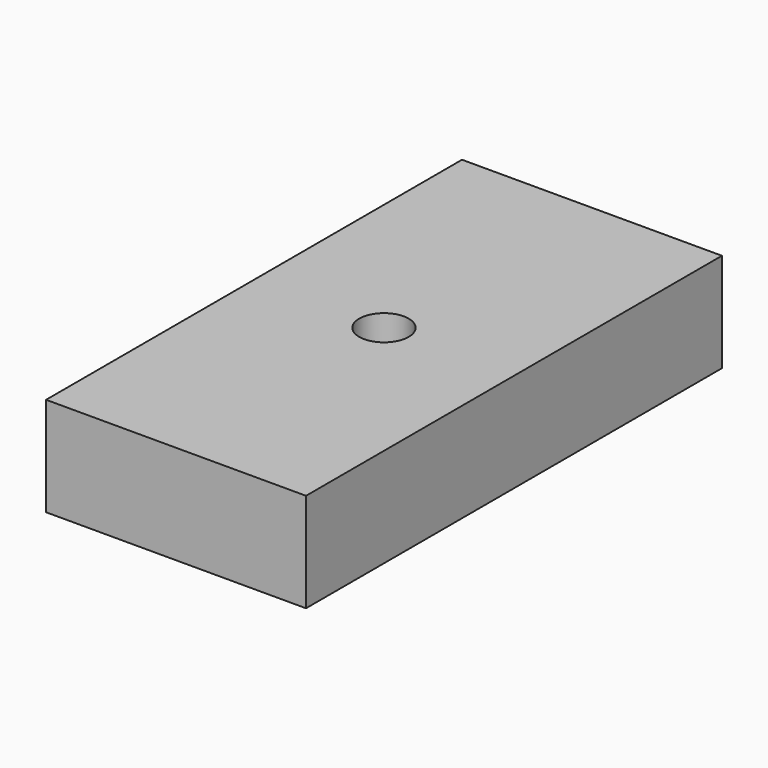
from build123d import *

# Parameters (mm, degrees)
SKETCH_W  = 50
SKETCH_H  = 100
SKETCH_R  = 4.7625
PAD_DEPTH = 19.05


with BuildPart() as part:
    # Sketch → Pad (new body)
    with BuildSketch(Plane.XY):
        with Locations((25, 50)):
            Rectangle(SKETCH_W, SKETCH_H)
        with Locations((25, 50)):
            Circle(SKETCH_R, mode=Mode.SUBTRACT)
    extrude(amount=PAD_DEPTH)


solid = part.part
